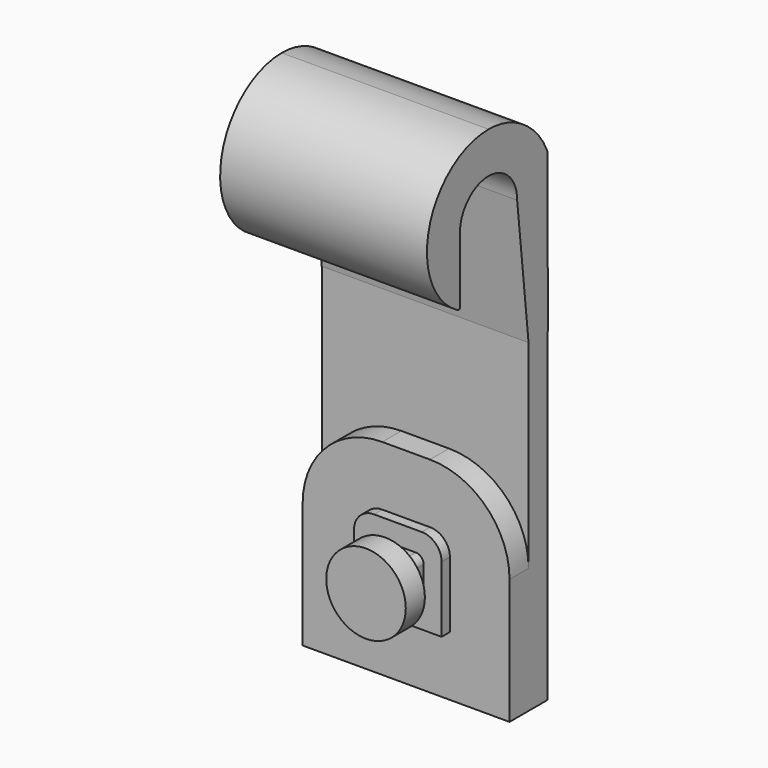
from build123d import *

# Parameters (mm, degrees)
F0_R      = 5
F1_DEPTH  = 3
F3_DEPTH  = 2
F6_DEPTH  = 1.3
F8_DEPTH  = 3
F10_DEPTH = 3
F12_DEPTH = 13


with BuildPart() as f1:
    # F0 (on Front) → F1 (new body)
    with BuildSketch(Plane.XZ):
        Circle(F0_R)
    extrude(amount=F1_DEPTH)

    # F2 (on Front) → F3 (join)
    with BuildSketch(Plane.XZ):
        with BuildLine():
            ThreePointArc((3.25, 2.25), (2.957107, 2.957107), (2.25, 3.25))
            Line((2.25, 3.25), (-2.25, 3.25))
            ThreePointArc((-2.25, 3.25), (-2.957107, 2.957107), (-3.25, 2.25))
            Line((-3.25, 2.25), (-3.25, -2.25))
            ThreePointArc((-3.25, -2.25), (-2.957107, -2.957107), (-2.25, -3.25))
            Line((-2.25, -3.25), (2.25, -3.25))
            ThreePointArc((2.25, -3.25), (2.957107, -2.957107), (3.25, -2.25))
            Line((3.25, -2.25), (3.25, 2.25))
        make_face()
    extrude(amount=-F3_DEPTH)

    # F5 (on face) → F6 (join)
    with BuildSketch(Plane(origin=(0, 2, 0), x_dir=(-1, 0, 0), z_dir=(0, 1, 0))):
        with BuildLine():
            Line((3.011181, 5.764368), (-3.021163, 5.764368))
            ThreePointArc((-3.021163, 5.764368), (-4.77577, 5.037585), (-5.502553, 3.282978))
            Line((-5.502553, 3.282978), (-5.502553, -5.026481))
            Line((-5.502553, -5.026481), (5.503863, -5.026481))
            Line((5.503863, -5.026481), (5.503863, 3.25))
            ThreePointArc((5.503863, 3.25), (4.781457, 5.0266), (3.011181, 5.764368))
        make_face()
    extrude(amount=F6_DEPTH)

    # F7 (on face) → F8 (join)
    with BuildSketch(Plane(origin=(0, 3.3, 0), x_dir=(-1, 0, 0), z_dir=(0, 1, 0))):
        with BuildLine():
            Line((3, 13.25), (0, 13.25))
            Line((0, 13.25), (-3, 13.25))
            ThreePointArc((-3, 13.25), (-10.071068, 10.321068), (-13, 3.25))
            Line((-13, 3.25), (-13, -12.532328))
            Line((-13, -12.532328), (0, -12.532328))
            Line((0, -12.532328), (13, -12.532328))
            Line((13, -12.532328), (13, 3.25))
            ThreePointArc((13, 3.25), (10.071068, 10.321068), (3, 13.25))
        make_face()
    extrude(amount=F8_DEPTH)

    # F9 (on face) → F10 (join)
    with BuildSketch(Plane(origin=(0, 6.3, 0), x_dir=(-1, 0, 0), z_dir=(0, 1, 0))):
        with BuildLine():
            Line((-13, 41.776921), (-13, -12.532328))
            Line((-13, -12.532328), (13, -12.532328))
            Line((13, -12.532328), (13, 41.776921))
            ThreePointArc((13, 41.776921), (11.140128, 46.267049), (6.65, 48.126921))
            Line((6.65, 48.126921), (-6.65, 48.126921))
            ThreePointArc((-6.65, 48.126921), (-11.140128, 46.267049), (-13, 41.776921))
        make_face()
    extrude(amount=F10_DEPTH)

    # F11 (on Right) → F12 (join, symmetric)
    with BuildSketch(Plane.YZ):
        with BuildLine():
            ThreePointArc((-4.499917, 44.689184), (-0.013706, 49.216576), (4.5, 44.716597))
            Line((4.5, 44.716597), (6.291118, 28.223049))
            Line((6.291118, 28.223049), (9.316304, 28.223049))
            Line((9.316304, 28.223049), (9.292265, 47.855158))
            ThreePointArc((9.292265, 47.855158), (9.263071, 48.124349), (9.177474, 48.381234))
            ThreePointArc((9.177474, 48.381234), (7.493667, 50.958381), (5.122331, 52.921456))
            ThreePointArc((5.122331, 52.921456), (2.657907, 53.992931), (0, 54.389135))
            ThreePointArc((0, 54.389135), (-9.339994, 47.231055), (-4.856021, 36.351367))
            ThreePointArc((-4.856021, 36.351367), (-4.585088, 36.351301), (-4.450556, 36.586473))
            Line((-4.450556, 36.586473), (-4.499917, 44.689184))
        make_face()
        with BuildLine():
            ThreePointArc((5.122331, 52.921456), (2.664224, 54.014979), (0, 54.389135))
            ThreePointArc((0, 54.389135), (2.657907, 53.992931), (5.122331, 52.921456))
        make_face()
    extrude(amount=F12_DEPTH, both=True)


solid = f1.part
